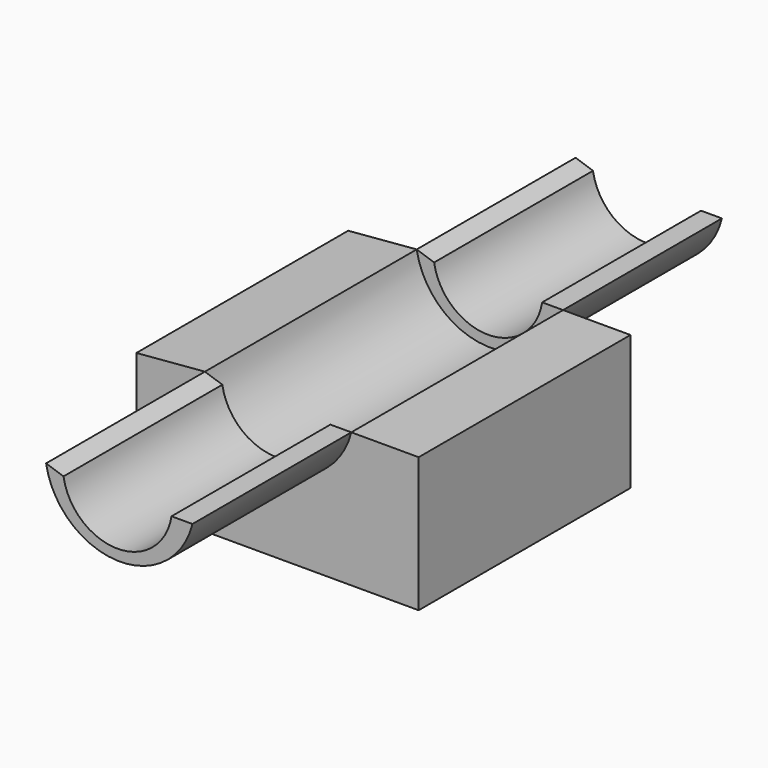
from build123d import *

# Parameters (mm, degrees)
F1_DEPTH = 50
F3_DEPTH = 75


with BuildPart() as f1:
    # F0 (on Front) → F1 (new body)
    with BuildSketch(Plane.XZ):
        with BuildLine():
            ThreePointArc((29.1802864522, 13.822240755), (0.6428075813, -7.5843173072), (-26.108674705, 16.016246751))
            Line((-26.108674705, 16.016246751), (-51.9979521632, 13.822240755))
            Line((-51.9979521632, 13.822240755), (-51.9979521632, -37.0787084103))
            Line((-51.9979521632, -37.0787084103), (54.6307638288, -37.0787084103))
            Line((54.6307638288, -37.0787084103), (54.6307638288, 13.822240755))
            Line((54.6307638288, 13.822240755), (29.1802864522, 13.822240755))
        make_face()
    extrude(amount=F1_DEPTH)



with BuildPart() as f3:
    # F2 (on face) → F3 (new body)
    with BuildSketch(Plane.XZ.offset(50)):
        with BuildLine():
            Line((-19.5266548544, 13.822240755), (-26.108674705, 16.016246751))
            ThreePointArc((-26.108674705, 16.016246751), (0.6428075813, -7.5843173072), (29.1802864522, 13.822240755))
            Line((29.1802864522, 13.822240755), (21.2818607688, 13.822240755))
            ThreePointArc((21.2818607688, 13.822240755), (0.8776029572, -3.6009001218), (-19.5266548544, 13.822240755))
        make_face()
    extrude(amount=F3_DEPTH)


with BuildPart() as f1_1:
    add(f1.part)
    # F4: F3, F1 across face
    add(f3.part.mirror(Plane(origin=(1.0052951471, 0, -14.6059015673), x_dir=(1, 0, 0), z_dir=(0, 1, 0))))
    add(f1.part.mirror(Plane(origin=(1.0052951471, 0, -14.6059015673), x_dir=(1, 0, 0), z_dir=(0, 1, 0))))


solid = Compound([f3.part, f1_1.part])
